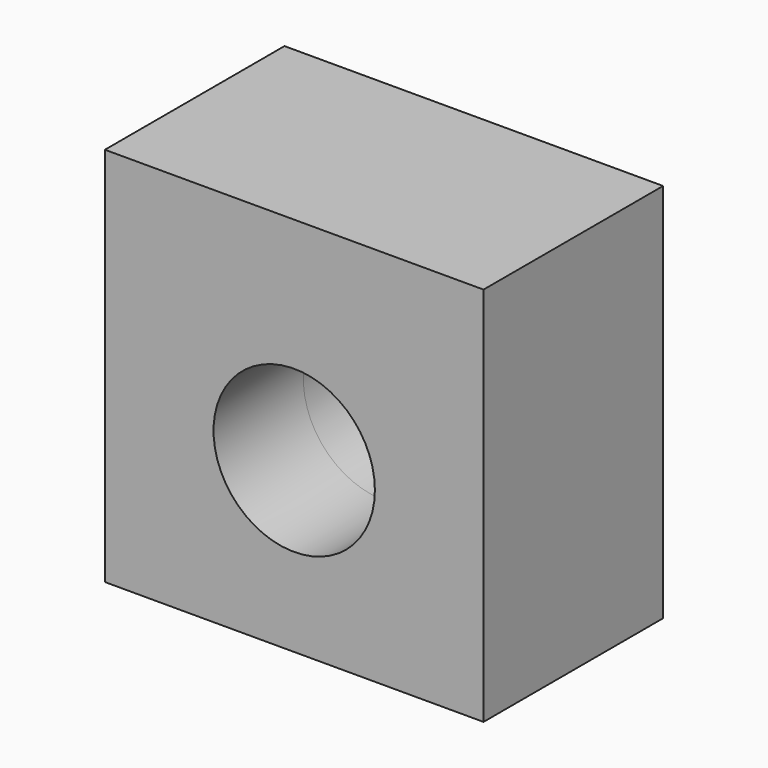
from build123d import *

# Parameters (mm, degrees)
F0_W     = 85.6928378344
F0_H     = 86.1391574144
F1_DEPTH = 25.4
F2_R     = 18.2584183748
F3_DEPTH = 162.2124761343
F4_DEPTH = 25.4


with BuildPart() as f1:
    # F0 (on Front) → F1 (new body)
    with BuildSketch(Plane.XZ):
        with Locations((-7.4506e-06, 4.8927590251)):
            Rectangle(F0_W, F0_H)
    extrude(amount=F1_DEPTH)

    # F2 (on Front) → F3 (cut)
    with BuildSketch(Plane.XZ):
        Circle(F2_R)
    extrude(amount=F3_DEPTH, mode=Mode.SUBTRACT)

    # F4 (add): a face of the model
    f4_faces = [f1.faces().sort_by_distance(p)[0] for p in [
        (-7.4506e-06, -25.4, 46.747297943),
    ]]
    extrude(f4_faces, amount=F4_DEPTH)


solid = f1.part
